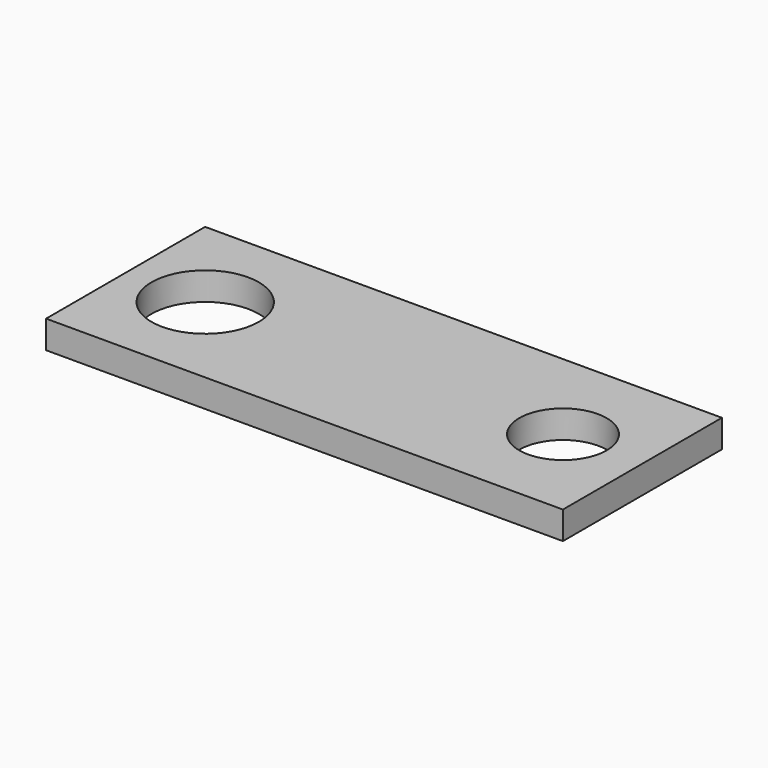
from build123d import *

# Parameters (mm, degrees)
SKETCH_W   = 130
SKETCH_H   = 50
SKETCH_R   = 13.5
SKETCH_R_2 = 11
PAD_DEPTH  = 7


with BuildPart() as part:
    # Sketch → Pad (new body)
    with BuildSketch(Plane.XY):
        with Locations((45, -0.025626)):
            Rectangle(SKETCH_W, SKETCH_H)
        Circle(SKETCH_R, mode=Mode.SUBTRACT)
        with Locations((90, 0)):
            Circle(SKETCH_R_2, mode=Mode.SUBTRACT)
    extrude(amount=PAD_DEPTH)


solid = part.part
